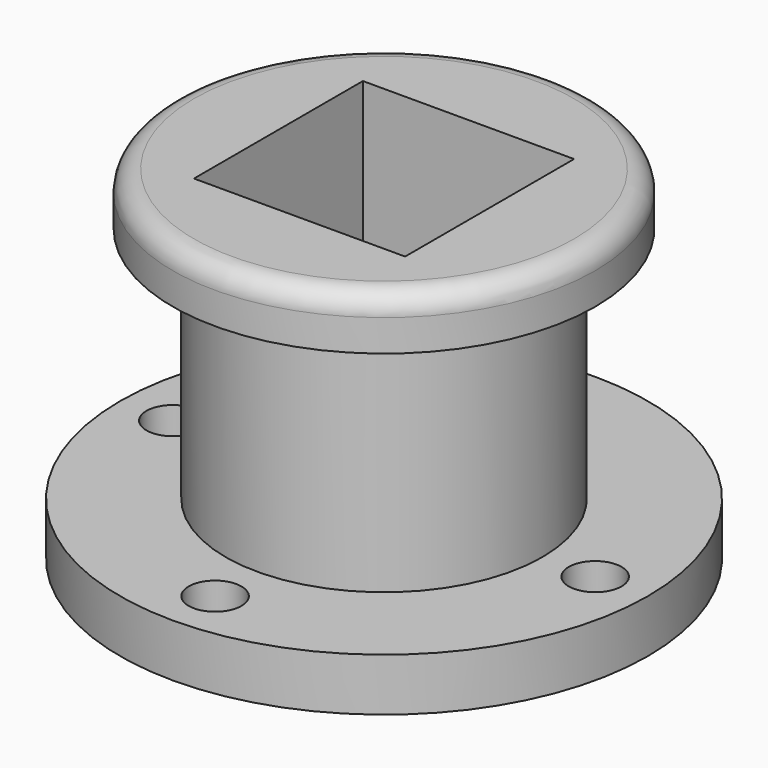
from build123d import *

# Parameters (mm, degrees)
F0_R      = 63.5
F1_DEPTH  = 12.7
F2_R      = 38.1
F3_DEPTH  = 57.15
F4_R      = 6.35
F5_DEPTH  = 25.4
F6_R      = 50.8
F7_DEPTH  = 12.7
F8_R      = 5.08
F10_DEPTH = 127


with BuildPart() as f1:
    # F0 (on Top) → F1 (new body)
    with BuildSketch(Plane.XY):
        Circle(F0_R)
    extrude(amount=F1_DEPTH)

    # F2 (on face) → F3 (join)
    with BuildSketch(Plane.XY.offset(12.7)):
        Circle(F2_R)
    extrude(amount=F3_DEPTH)

    # F4 (on face) → F5 (cut)
    with BuildSketch(Plane.XY.offset(12.7)):
        with Locations((-50.8, 0)):
            Circle(F4_R)
        with Locations((0, 50.8)):
            Circle(F4_R)
        with Locations((50.8, 0)):
            Circle(F4_R)
        with Locations((0, -50.8)):
            Circle(F4_R)
    extrude(amount=-F5_DEPTH, mode=Mode.SUBTRACT)

    # F6 (on face) → F7 (join)
    with BuildSketch(Plane.XY.offset(69.85)):
        Circle(F6_R)
    extrude(amount=F7_DEPTH)

    # F8
    f8_edges = [f1.edges().sort_by_distance(p)[0] for p in [
        (-50.8, 0, 82.55),
    ]]
    fillet(f8_edges, radius=F8_R)

    # F9 (on face) → F10 (cut)
    with BuildSketch(Plane.XY.offset(82.55)):
        Polygon((-25.4, 25.4), (-25.4, 0), (-25.4, -25.4), (25.4, -25.4), (25.4, 25.4), align=None)
    extrude(amount=-F10_DEPTH, mode=Mode.SUBTRACT)


solid = f1.part
